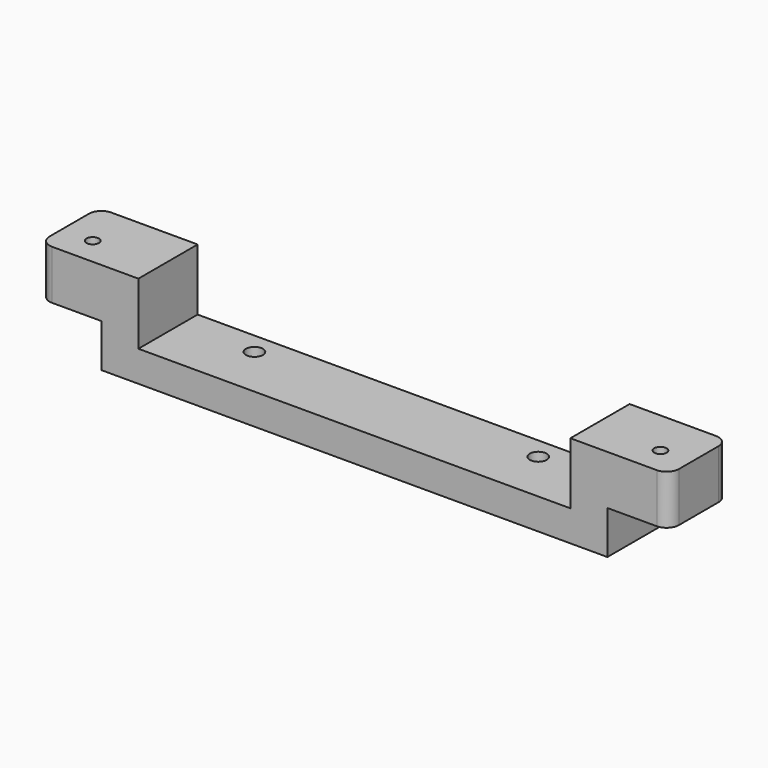
from build123d import *

# Parameters (mm, degrees)
F1_DEPTH      = 15
F2_W          = 70
F2_H          = 12
F3_DEPTH      = 10
F4_R          = 1.375
F4_R_2        = 1
F5_DEPTH      = 25
F5_DEPTH_BACK = 25
F6_R          = 1
F7_DEPTH      = 7


with BuildPart() as f1:
    # F0 (on Top) → F1 (new body)
    with BuildSketch(Plane.XY):
        with BuildLine():
            ThreePointArc((-15.4861029406, 2), (-14.9003165029, 0.5857864376), (-13.4861029406, 0))
            Line((-13.4861029406, 0), (84.5138970594, 0))
            ThreePointArc((84.5138970594, 0), (85.9281106218, 0.5857864376), (86.5138970594, 2))
            Line((86.5138970594, 2), (86.5138970594, 10))
            ThreePointArc((86.5138970594, 10), (85.9281106218, 11.4142135624), (84.5138970594, 12))
            Line((84.5138970594, 12), (-13.4861029406, 12))
            ThreePointArc((-13.4861029406, 12), (-14.9003165029, 11.4142135624), (-15.4861029406, 10))
            Line((-15.4861029406, 10), (-15.4861029406, 2))
        make_face()
    extrude(amount=F1_DEPTH)

    # F2 (on face) → F3 (cut)
    with BuildSketch(Plane.XY.offset(15)):
        with Locations((35.5138970594, 6)):
            Rectangle(F2_W, F2_H)
    extrude(amount=-F3_DEPTH, mode=Mode.SUBTRACT)

    # F4 (on face) → F5 (cut, two sides)
    with BuildSketch(Plane.XY.offset(5)) as f5_sk:
        with Locations((12.5138970594, 8.5)):
            Circle(F4_R)
        with Locations((58.5138970594, 8.5)):
            Circle(F4_R)
        with Locations((-10.4861029406, 4.5)):
            Circle(F4_R_2)
        with Locations((81.5138970594, 4.5)):
            Circle(F4_R_2)
    extrude(amount=-F5_DEPTH, mode=Mode.SUBTRACT)
    extrude(f5_sk.sketch, amount=F5_DEPTH_BACK, mode=Mode.SUBTRACT)

    # F6 (on face) → F7 (cut)
    with BuildSketch(Plane(origin=(0, 0, 0), x_dir=(1, 0, 0), z_dir=(0, 0, -1))):
        with BuildLine():
            Line((76.5138970594, 0), (76.5138970594, -12))
            Line((76.5138970594, -12), (84.5138970594, -12))
            ThreePointArc((84.5138970594, -12), (85.9281106218, -11.4142135624), (86.5138970594, -10))
            Line((86.5138970594, -10), (86.5138970594, -2))
            ThreePointArc((86.5138970594, -2), (85.9281106218, -0.5857864376), (84.5138970594, 0))
            Line((84.5138970594, 0), (76.5138970594, 0))
        make_face()
        with Locations((81.5138970594, -4.5)):
            Circle(F6_R, mode=Mode.SUBTRACT)
        with BuildLine():
            Line((-13.4861029406, -12), (-5.4861029406, -12))
            Line((-5.4861029406, -12), (-5.4861029406, 0))
            Line((-5.4861029406, 0), (-13.4861029406, 0))
            ThreePointArc((-13.4861029406, 0), (-14.9003165029, -0.5857864376), (-15.4861029406, -2))
            Line((-15.4861029406, -2), (-15.4861029406, -10))
            ThreePointArc((-15.4861029406, -10), (-14.9003165029, -11.4142135624), (-13.4861029406, -12))
        make_face()
        with Locations((-10.4861029406, -4.5)):
            Circle(F6_R, mode=Mode.SUBTRACT)
    extrude(amount=-F7_DEPTH, mode=Mode.SUBTRACT)


solid = f1.part
